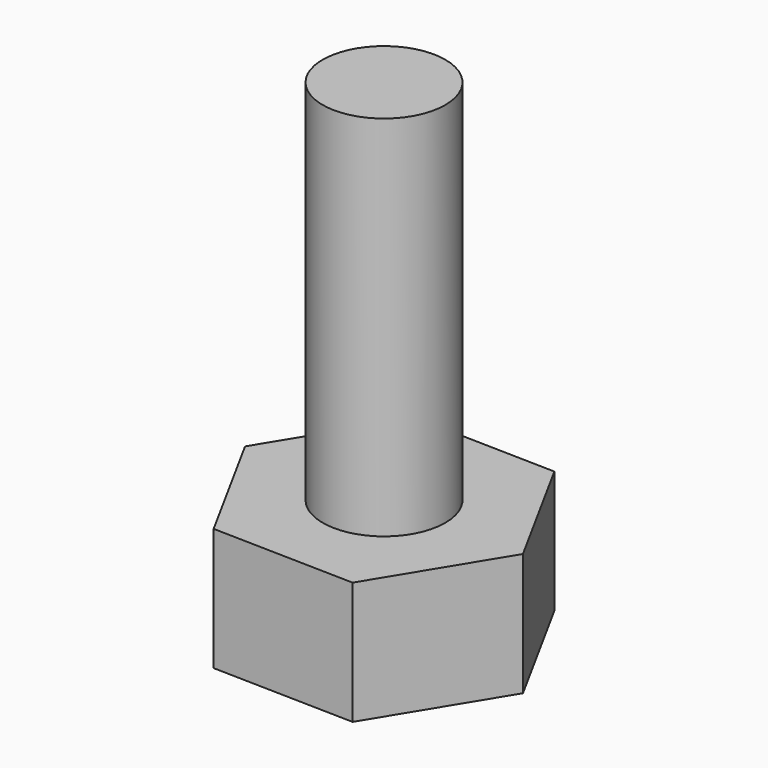
from build123d import *

# Parameters (mm, degrees)
F0_R     = 3.175
F1_DEPTH = 25.4
F2_DEPTH = 6.35


with BuildPart() as f1:
    # F0 (on Top) → F1 (new body)
    with BuildSketch(Plane.XY):
        Circle(F0_R)
    extrude(amount=F1_DEPTH)

    # F0 (on Top) → F2 (join)
    with BuildSketch(Plane.XY):
        Polygon((3.519062, -6.432693), (7.330406, -0.168749), (3.811345, 6.263943), (-3.519062, 6.432693), (-7.330406, 0.168749), (-3.811345, -6.263943), align=None)
        Circle(F0_R, mode=Mode.SUBTRACT)
    extrude(amount=F2_DEPTH)


solid = f1.part
